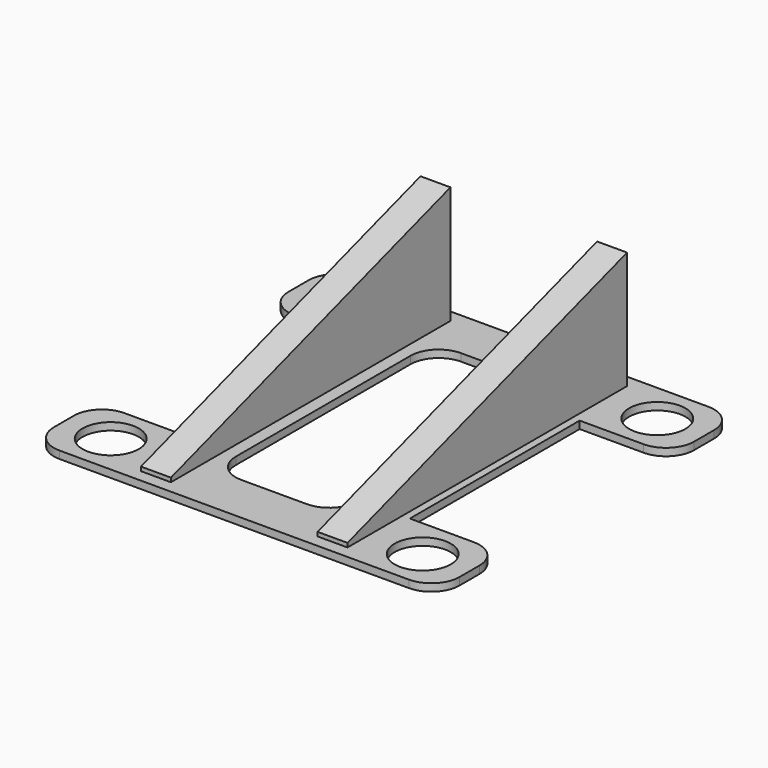
from build123d import *

# Parameters (mm, degrees)
F0_R     = 4.5
F0_W     = 8
F0_H     = 34
F1_DEPTH = 1.2
F2_W     = 4.8
F2_H     = 56
F3_DEPTH = 25
F5_W     = 101.632081
F5_H     = 108.945377
F6_DEPTH = 50


with BuildPart() as f1:
    # F0 (on Top) → F1 (new body)
    with BuildSketch(Plane.XY):
        with BuildLine():
            Line((17.75, 17), (17.75, 30))
            Line((17.75, 30), (-17.75, 30))
            Line((-17.75, 30), (-17.75, 17))
            Line((-17.75, 17), (-9.75, 17))
            Line((-9.75, 17), (-9.75, 17.5))
            ThreePointArc((-9.75, 17.5), (-8.431981, 20.681981), (-5.25, 22))
            Line((-5.25, 22), (5.25, 22))
            ThreePointArc((5.25, 22), (8.431981, 20.681981), (9.75, 17.5))
            Line((9.75, 17.5), (9.75, 17))
            Line((9.75, 17), (17.75, 17))
        make_face()
        with BuildLine():
            Line((28, 30), (17.75, 30))
            Line((17.75, 30), (17.75, 17))
            Line((17.75, 17), (28, 17))
            ThreePointArc((28, 17), (31.181981, 18.318019), (32.5, 21.5))
            Line((32.5, 21.5), (32.5, 25.5))
            ThreePointArc((32.5, 25.5), (31.181981, 28.681981), (28, 30))
        make_face()
        with Locations((25, 23.5)):
            Circle(F0_R, mode=Mode.SUBTRACT)
        with BuildLine():
            Line((-17.75, 17), (-17.75, 30))
            Line((-17.75, 30), (-28, 30))
            ThreePointArc((-28, 30), (-31.181981, 28.681981), (-32.5, 25.5))
            Line((-32.5, 25.5), (-32.5, 21.5))
            ThreePointArc((-32.5, 21.5), (-31.181981, 18.318019), (-28, 17))
            Line((-28, 17), (-17.75, 17))
        make_face()
        with Locations((-25, 23.5)):
            Circle(F0_R, mode=Mode.SUBTRACT)
        with Locations((13.75, 0)):
            Rectangle(F0_W, F0_H)
        with Locations((-13.75, 0)):
            Rectangle(F0_W, F0_H)
        with BuildLine():
            Line((28, -17), (17.75, -17))
            Line((17.75, -17), (17.75, -30))
            Line((17.75, -30), (28, -30))
            ThreePointArc((28, -30), (31.181981, -28.681981), (32.5, -25.5))
            Line((32.5, -25.5), (32.5, -21.5))
            ThreePointArc((32.5, -21.5), (31.181981, -18.318019), (28, -17))
        make_face()
        with Locations((25, -23.5)):
            Circle(F0_R, mode=Mode.SUBTRACT)
        with BuildLine():
            Line((17.75, -30), (17.75, -17))
            Line((17.75, -17), (9.75, -17))
            Line((9.75, -17), (9.75, -17.5))
            ThreePointArc((9.75, -17.5), (8.431981, -20.681981), (5.25, -22))
            Line((5.25, -22), (-5.25, -22))
            ThreePointArc((-5.25, -22), (-8.431981, -20.681981), (-9.75, -17.5))
            Line((-9.75, -17.5), (-9.75, -17))
            Line((-9.75, -17), (-17.75, -17))
            Line((-17.75, -17), (-17.75, -30))
            Line((-17.75, -30), (17.75, -30))
        make_face()
        with BuildLine():
            Line((-17.75, -30), (-17.75, -17))
            Line((-17.75, -17), (-28, -17))
            ThreePointArc((-28, -17), (-31.181981, -18.318019), (-32.5, -21.5))
            Line((-32.5, -21.5), (-32.5, -25.5))
            ThreePointArc((-32.5, -25.5), (-31.181981, -28.681981), (-28, -30))
            Line((-28, -30), (-17.75, -30))
        make_face()
        with Locations((-25, -23.5)):
            Circle(F0_R, mode=Mode.SUBTRACT)
    extrude(amount=F1_DEPTH)

    # F2 (on face) → F3 (join)
    with BuildSketch(Plane.XY.offset(1.2)):
        with Locations((14.15, 0)):
            Rectangle(F2_W, F2_H)
        with Locations((-14.15, 0)):
            Rectangle(F2_W, F2_H)
    extrude(amount=F3_DEPTH)

    # F5 (on face) → F6 (cut)
    with BuildSketch(Plane(origin=(0, -3.217416, 9.902189), x_dir=(1, 0, 0), z_dir=(0, -0.309017, 0.951057))):
        with Locations((3.367923, -6.511665)):
            Rectangle(F5_W, F5_H)
    extrude(amount=F6_DEPTH, mode=Mode.SUBTRACT)


solid = f1.part
